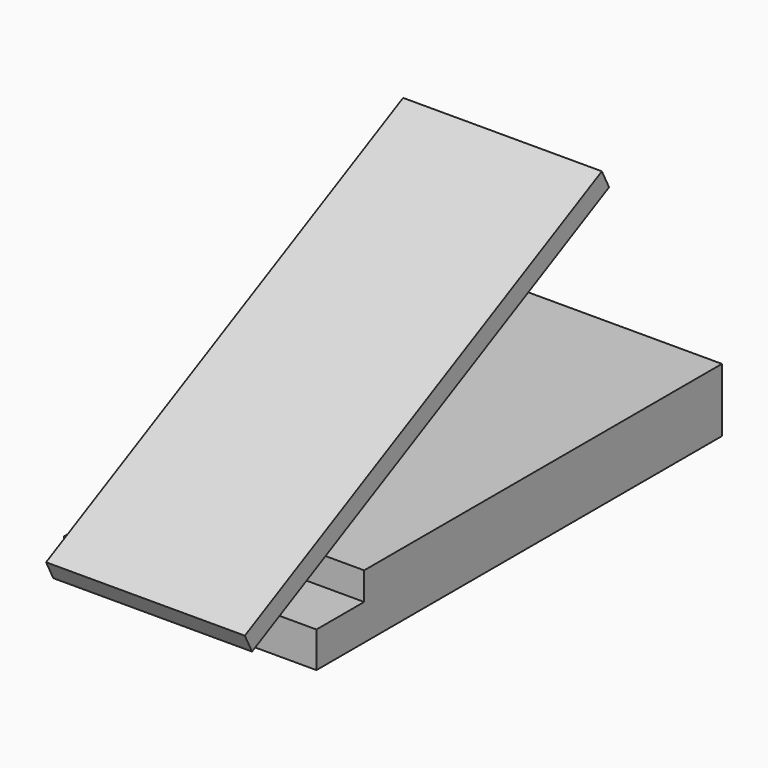
from build123d import *

# Parameters (mm, degrees)
BOX001_W               = 100
BOX001_H               = 252
BOX001_DEPTH           = 10
BOX001_PLACEMENT_ANGLE = 27
BOX_W                  = 135
BOX_H                  = 31
BOX_DEPTH              = 20
SKETCH_W               = 127
SKETCH_H               = 255
PAD_DEPTH              = 32


with BuildPart() as cube001:
    # Box001 → Box001 (new body)
    with BuildSketch(Plane.XY):
        with Locations((50, 126)):
            Rectangle(BOX001_W, BOX001_H)
    extrude(amount=BOX001_DEPTH)


with BuildPart() as cube001_1:
    # Box001 placement: moved
    add(cube001.part.moved(Location((13, -23, 13))).rotate(Axis((13, -23, 13), (1, 0, 0)), BOX001_PLACEMENT_ANGLE))


with BuildPart() as cube:
    # Box → Box (new body)
    with BuildSketch(Plane(origin=(-3, -1, 18), x_dir=(1, 0, 0), z_dir=(0, 0, 1))):
        with Locations((67.5, 15.5)):
            Rectangle(BOX_W, BOX_H)
    extrude(amount=BOX_DEPTH)


with BuildPart() as fusion:
    # Sketch → Pad (new body)
    with BuildSketch(Plane.XY):
        with Locations((63.5, 127.5)):
            Rectangle(SKETCH_W, SKETCH_H)
    extrude(amount=PAD_DEPTH)

    # Cut: cut Cube
    add(cube.part, mode=Mode.SUBTRACT)

    # Fusion: union Cube001
    add(cube001_1.part)


solid = fusion.part
